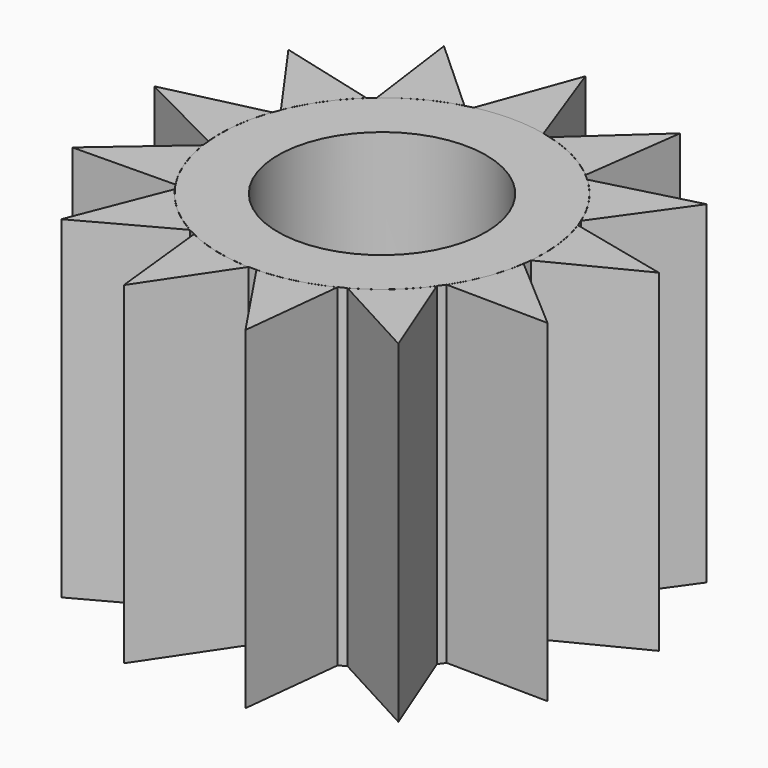
from build123d import *

# Parameters (mm, degrees)
F1_DEPTH = 7.6
F3_COUNT = 13
F0_R     = 2.375
F4_DEPTH = 7.6


with BuildPart() as f1:
    # F0 (on Top) → F1 (new body)
    with BuildSketch(Plane.XY):
        with BuildLine():
            Line((0, 5.8), (-0.79586, 3.613393))
            ThreePointArc((-0.79586, 3.613393), (-0.400279, 3.678284), (0, 3.7))
            Line((0, 3.7), (0, 5.8))
        make_face()
        with BuildLine():
            ThreePointArc((0, 3.7), (0.400279, 3.678284), (0.79586, 3.613393))
            Line((0.79586, 3.613393), (0, 5.8))
            Line((0, 5.8), (0, 3.7))
        make_face()
    extrude(amount=F1_DEPTH)


with BuildPart() as f3_1:
    # F3: instance of F1
    add(f1.part.rotate(Axis((0, 0, 7.24467), (0, 0, 1)), 1 * 360 / F3_COUNT))


with BuildPart() as f3_2:
    # F3: instance of F1
    add(f1.part.rotate(Axis((0, 0, 7.24467), (0, 0, 1)), 2 * 360 / F3_COUNT))


with BuildPart() as f3_3:
    # F3: instance of F1
    add(f1.part.rotate(Axis((0, 0, 7.24467), (0, 0, 1)), 3 * 360 / F3_COUNT))


with BuildPart() as f3_4:
    # F3: instance of F1
    add(f1.part.rotate(Axis((0, 0, 7.24467), (0, 0, 1)), 4 * 360 / F3_COUNT))


with BuildPart() as f3_5:
    # F3: instance of F1
    add(f1.part.rotate(Axis((0, 0, 7.24467), (0, 0, 1)), 5 * 360 / F3_COUNT))


with BuildPart() as f3_6:
    # F3: instance of F1
    add(f1.part.rotate(Axis((0, 0, 7.24467), (0, 0, 1)), 6 * 360 / F3_COUNT))


with BuildPart() as f3_7:
    # F3: instance of F1
    add(f1.part.rotate(Axis((0, 0, 7.24467), (0, 0, 1)), 7 * 360 / F3_COUNT))


with BuildPart() as f3_8:
    # F3: instance of F1
    add(f1.part.rotate(Axis((0, 0, 7.24467), (0, 0, 1)), 8 * 360 / F3_COUNT))


with BuildPart() as f3_9:
    # F3: instance of F1
    add(f1.part.rotate(Axis((0, 0, 7.24467), (0, 0, 1)), 9 * 360 / F3_COUNT))


with BuildPart() as f3_10:
    # F3: instance of F1
    add(f1.part.rotate(Axis((0, 0, 7.24467), (0, 0, 1)), 10 * 360 / F3_COUNT))


with BuildPart() as f3_11:
    # F3: instance of F1
    add(f1.part.rotate(Axis((0, 0, 7.24467), (0, 0, 1)), 11 * 360 / F3_COUNT))


with BuildPart() as f3_12:
    # F3: instance of F1
    add(f1.part.rotate(Axis((0, 0, 7.24467), (0, 0, 1)), 12 * 360 / F3_COUNT))


with BuildPart() as f4:
    # F0 (on Top) → F4 (new body)
    with BuildSketch(Plane.XY):
        with BuildLine():
            ThreePointArc((-0.79586, 3.613393), (-2.3179, -2.88398), (3.7, 0))
            ThreePointArc((3.7, 0), (2.88398, 2.3179), (0.79586, 3.613393))
            ThreePointArc((0.79586, 3.613393), (0.400279, 3.678284), (0, 3.7))
            ThreePointArc((0, 3.7), (-0.400279, 3.678284), (-0.79586, 3.613393))
        make_face()
        Circle(F0_R, mode=Mode.SUBTRACT)
    extrude(amount=F4_DEPTH)


solid = Compound([f1.part, f3_1.part, f3_2.part, f3_3.part, f3_4.part, f3_5.part, f3_6.part, f3_7.part, f3_8.part, f3_9.part, f3_10.part, f3_11.part, f3_12.part, f4.part])
